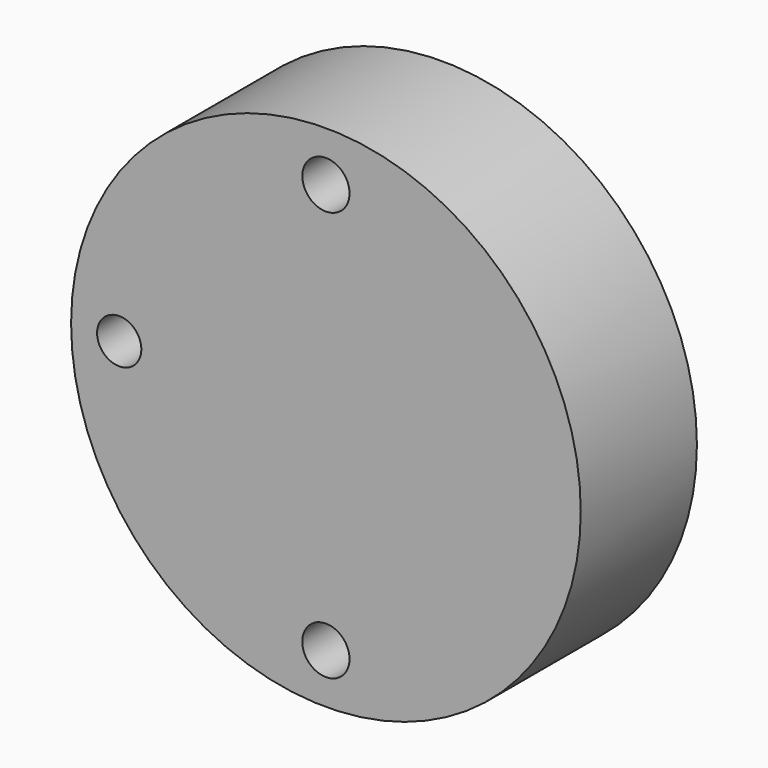
from build123d import *

# Parameters (mm, degrees)
F0_R     = 44.578469
F0_R_2   = 4.130209
F0_R_3   = 3.87308
F1_DEPTH = 25.4


with BuildPart() as f1:
    # F0 (on Front) → F1 (new body)
    with BuildSketch(Plane.XZ):
        Circle(F0_R)
        with Locations((0, -35.854127)):
            Circle(F0_R_2, mode=Mode.SUBTRACT)
        with Locations((-36.159471, 0)):
            Circle(F0_R_3, mode=Mode.SUBTRACT)
        with Locations((0, 35.854127)):
            Circle(F0_R_2, mode=Mode.SUBTRACT)
    extrude(amount=F1_DEPTH)


solid = f1.part
